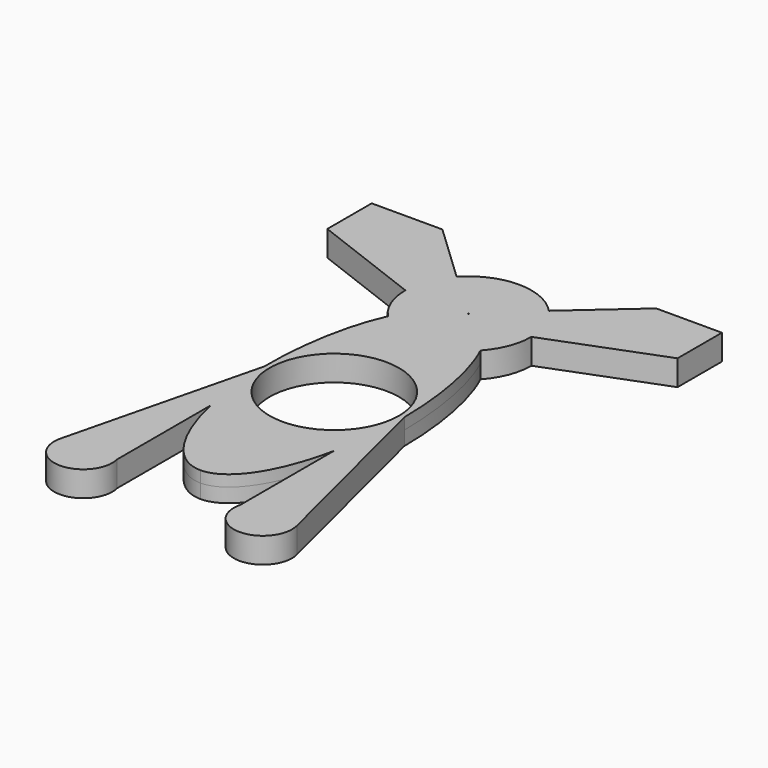
from build123d import *

# Parameters (mm, degrees)
F0_R     = 14.5472790553
F1_DEPTH = 3.175
F2_DEPTH = 5.715


with BuildPart() as f1:
    # F0 (on Top) → F1 (new body)
    with BuildSketch(Plane.XY):
        with BuildLine():
            add(Edge.make_bspline(
                [(-17.3302307441, -18.9114744135), (-12.7840517895, -39.3035737815), (-3.2940015008, -39.2257868182)],
                knots=[5.1919648614, 5.1919648614, 5.1919648614, 6.2831853072, 6.2831853072, 6.2831853072], degree=2, weights=[1, 0.854810781, 1]))
            add(Edge.make_bspline(
                [(-3.2940015008, -39.2257868182), (6.123923112, -39.1485910465), (10.3601545856, -18.9114744135)],
                knots=[0, 0, 0, 1.0844638725, 1.0844638725, 1.0844638725], degree=2, weights=[1, 0.8565590272, 1]))
            add(Edge.make_bspline(
                [(10.3601545856, -18.9114744135), (12.1044870422, -10.5785351982), (12.0273641605, -1.1695031996)],
                knots=[1.0844638725, 1.0844638725, 1.0844638725, 1.5707963268, 1.5707963268, 1.5707963268], degree=2, weights=[1, 0.9705804868, 1]))
            add(Edge.make_bspline(
                [(12.0273641605, -1.1695031996), (11.88861373, 15.7581220548), (6.6027932897, 27.0196823223)],
                knots=[1.5707963268, 1.5707963268, 1.5707963268, 2.4103546369, 2.4103546369, 2.4103546369], degree=2, weights=[1, 0.9131789699, 1]))
            ThreePointArc((6.6027932897, 27.0196823223), (-3.7977289586, 22.4602209118), (-14.2062252861, 27.0014493351))
            add(Edge.make_bspline(
                [(-14.2062252861, 27.0014493351), (-19.3770142282, 15.6392708689), (-19.2371374573, -1.4257685052)],
                knots=[3.8667963971, 3.8667963971, 3.8667963971, 4.7123889804, 4.7123889804, 4.7123889804], degree=2, weights=[1, 0.9119451548, 1]))
            add(Edge.make_bspline(
                [(-19.2371374573, -1.4257685052), (-19.1611285396, -10.6988963006), (-17.3302307441, -18.9114744135)],
                knots=[4.7123889804, 4.7123889804, 4.7123889804, 5.1919648614, 5.1919648614, 5.1919648614], degree=2, weights=[1, 0.9713883601, 1]))
        make_face()
        with Locations((-3.6048866484, -1.2976358524)):
            Circle(F0_R, mode=Mode.SUBTRACT)
    extrude(amount=F1_DEPTH)

    # F0 (on Top) → F2 (join)
    with BuildSketch(Plane.XY):
        with BuildLine():
            add(Edge.make_bspline(
                [(-17.3302307441, -18.9114744135), (-12.7840517895, -39.3035737815), (-3.2940015008, -39.2257868182)],
                knots=[5.1919648614, 5.1919648614, 5.1919648614, 6.2831853072, 6.2831853072, 6.2831853072], degree=2, weights=[1, 0.854810781, 1]))
            add(Edge.make_bspline(
                [(-3.2940015008, -39.2257868182), (6.123923112, -39.1485910465), (10.3601545856, -18.9114744135)],
                knots=[0, 0, 0, 1.0844638725, 1.0844638725, 1.0844638725], degree=2, weights=[1, 0.8565590272, 1]))
            add(Edge.make_bspline(
                [(10.3601545856, -18.9114744135), (12.1044870422, -10.5785351982), (12.0273641605, -1.1695031996)],
                knots=[1.0844638725, 1.0844638725, 1.0844638725, 1.5707963268, 1.5707963268, 1.5707963268], degree=2, weights=[1, 0.9705804868, 1]))
            add(Edge.make_bspline(
                [(12.0273641605, -1.1695031996), (11.88861373, 15.7581220548), (6.6027932897, 27.0196823223)],
                knots=[1.5707963268, 1.5707963268, 1.5707963268, 2.4103546369, 2.4103546369, 2.4103546369], degree=2, weights=[1, 0.9131789699, 1]))
            ThreePointArc((6.6027932897, 27.0196823223), (-3.7977289586, 22.4602209118), (-14.2062252861, 27.0014493351))
            add(Edge.make_bspline(
                [(-14.2062252861, 27.0014493351), (-19.3770142282, 15.6392708689), (-19.2371374573, -1.4257685052)],
                knots=[3.8667963971, 3.8667963971, 3.8667963971, 4.7123889804, 4.7123889804, 4.7123889804], degree=2, weights=[1, 0.9119451548, 1]))
            add(Edge.make_bspline(
                [(-19.2371374573, -1.4257685052), (-19.1611285396, -10.6988963006), (-17.3302307441, -18.9114744135)],
                knots=[4.7123889804, 4.7123889804, 4.7123889804, 5.1919648614, 5.1919648614, 5.1919648614], degree=2, weights=[1, 0.9713883601, 1]))
        make_face()
        with Locations((-3.6048866484, -1.2976358524)):
            Circle(F0_R, mode=Mode.SUBTRACT)
        with BuildLine():
            add(Edge.make_bspline(
                [(10.3601545856, -18.9114744135), (12.1044870422, -10.5785351982), (12.0273641605, -1.1695031996)],
                knots=[1.0844638725, 1.0844638725, 1.0844638725, 1.5707963268, 1.5707963268, 1.5707963268], degree=2, weights=[1, 0.9705804868, 1]))
            Line((10.3601545856, -18.9114744135), (10.3601545856, -45.1457377323))
            Line((10.3601545856, -45.1457377323), (23.0601545856, -45.1457377323))
            Line((23.0601545856, -45.1457377323), (12.0273641605, -1.1695031996))
        make_face()
        with BuildLine():
            Line((-17.3302307441, -45.1457377323), (-17.3302307441, -18.9114744135))
            add(Edge.make_bspline(
                [(-19.2371374573, -1.4257685052), (-19.1611285396, -10.6988963006), (-17.3302307441, -18.9114744135)],
                knots=[4.7123889804, 4.7123889804, 4.7123889804, 5.1919648614, 5.1919648614, 5.1919648614], degree=2, weights=[1, 0.9713883601, 1]))
            Line((-19.2371374573, -1.4257685052), (-30.0302307441, -45.1457377323))
            Line((-30.0302307441, -45.1457377323), (-17.3302307441, -45.1457377323))
        make_face()
        with BuildLine():
            Line((23.0601545856, -45.1457377323), (10.3601545856, -45.1457377323))
            ThreePointArc((10.3601545856, -45.1457377323), (16.7101545856, -53.2856193183), (23.0601545856, -45.1457377323))
        make_face()
        with BuildLine():
            ThreePointArc((-30.0302307441, -45.1457377323), (-23.6802307441, -53.2539903225), (-17.3302307441, -45.1457377323))
            Line((-17.3302307441, -45.1457377323), (-30.0302307441, -45.1457377323))
        make_face()
        with BuildLine():
            ThreePointArc((-14.2062252861, 27.0014493351), (-3.7977289586, 22.4602209118), (6.6027932897, 27.0196823223))
            add(Edge.make_bspline(
                [(6.6027932897, 27.0196823223), (2.1602516195, 36.4846180548), (-3.704532498, 36.6287842303)],
                knots=[2.4103546369, 2.4103546369, 2.4103546369, 3.1280810135, 3.1280810135, 3.1280810135], degree=2, weights=[1, 0.9362966883, 1]))
            ThreePointArc((-3.704532498, 36.6287842303), (-3.8110105262, 36.5248919189), (-3.9157717959, 36.6305151135))
            add(Edge.make_bspline(
                [(-3.9157717959, 36.6305151135), (-9.8462768465, 36.5819046252), (-14.2062252861, 27.0014493351)],
                knots=[3.1415926536, 3.1415926536, 3.1415926536, 3.8667963971, 3.8667963971, 3.8667963971], degree=2, weights=[1, 0.9349770844, 1]))
        make_face()
        with BuildLine():
            add(Edge.make_bspline(
                [(6.6027932897, 27.0196823223), (2.1602516195, 36.4846180548), (-3.704532498, 36.6287842303)],
                knots=[2.4103546369, 2.4103546369, 2.4103546369, 3.1280810135, 3.1280810135, 3.1280810135], degree=2, weights=[1, 0.9362966883, 1]))
            ThreePointArc((6.6027932897, 27.0196823223), (9.387427608, 31.4709155445), (10.3601545856, 36.6305151135))
            ThreePointArc((10.3601545856, 36.6305151135), (9.3748938948, 41.8220601436), (6.55612214, 46.2916691))
            ThreePointArc((6.55612214, 46.2916691), (-3.8101450556, 50.8008147547), (-14.1764122512, 46.2916691))
            ThreePointArc((-14.1764122512, 46.2916691), (-16.9951840059, 41.8220601436), (-17.9804446968, 36.6305151135))
            ThreePointArc((-17.9804446968, 36.6305151135), (-17.0031917826, 31.459353737), (-14.2062252861, 27.0014493351))
            add(Edge.make_bspline(
                [(-3.9157717959, 36.6305151135), (-9.8462768465, 36.5819046252), (-14.2062252861, 27.0014493351)],
                knots=[3.1415926536, 3.1415926536, 3.1415926536, 3.8667963971, 3.8667963971, 3.8667963971], degree=2, weights=[1, 0.9349770844, 1]))
            ThreePointArc((-3.9157717959, 36.6305151135), (-3.8101450556, 36.7361418538), (-3.7045183152, 36.6305151135))
            ThreePointArc((-3.7045183152, 36.6305151135), (-3.704521861, 36.6296496428), (-3.704532498, 36.6287842303))
        make_face()
        with BuildLine():
            ThreePointArc((6.55612214, 46.2916691), (9.3748938948, 41.8220601436), (10.3601545856, 36.6305151135))
            Line((10.3601545856, 36.6305151135), (35.4768335819, 46.2916691))
            Line((35.4768335819, 46.2916691), (35.4768335819, 58.7584972382))
            Line((35.4768335819, 58.7584972382), (20.6948220729, 58.7584972382))
            Line((20.6948220729, 58.7584972382), (6.55612214, 46.2916691))
        make_face()
        with BuildLine():
            Line((-43.2374104858, 46.2916691), (-17.9804446968, 36.6305151135))
            ThreePointArc((-17.9804446968, 36.6305151135), (-16.9951840059, 41.8220601436), (-14.1764122512, 46.2916691))
            Line((-14.1764122512, 46.2916691), (-27.3467302323, 58.7584972382))
            Line((-27.3467302323, 58.7584972382), (-43.2374104858, 58.7584972382))
            Line((-43.2374104858, 58.7584972382), (-43.2374104858, 46.2916691))
        make_face()
    extrude(amount=F2_DEPTH)


solid = f1.part
